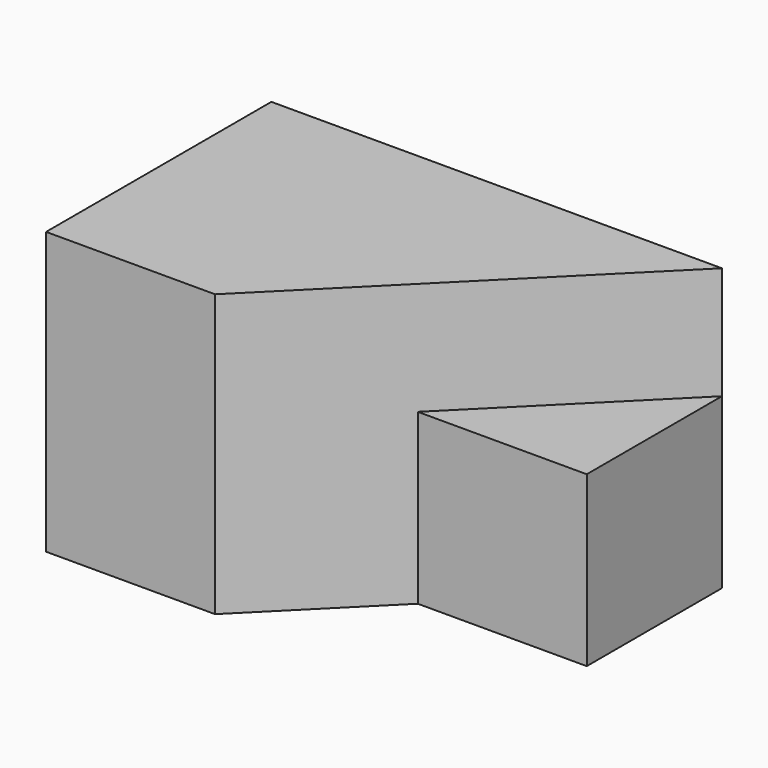
from build123d import *

# Parameters (mm, degrees)
F0_W     = 50.8
F0_H     = 31.75
F1_DEPTH = 31.75
F3_DEPTH = 31.75
F5_DEPTH = 19.05


with BuildPart() as f1:
    # F0 (on Front) → F1 (new body)
    with BuildSketch(Plane.XZ):
        with Locations((-25.4, 15.875)):
            Rectangle(F0_W, F0_H)
    extrude(amount=F1_DEPTH)

    # F2 (on face) → F3 (cut)
    with BuildSketch(Plane(origin=(0, 0, 0), x_dir=(1, 0, 0), z_dir=(0, 0, -1))):
        Polygon((0, 31.75), (-31.75, 31.75), (0, 0), align=None)
    extrude(amount=-F3_DEPTH, mode=Mode.SUBTRACT)

    # F4 (on face) → F5 (join)
    with BuildSketch(Plane(origin=(0, 0, 0), x_dir=(1, 0, 0), z_dir=(0, 0, -1))):
        Polygon((-19.05, 19.05), (0, 0), (0, 19.05), align=None)
    extrude(amount=-F5_DEPTH)


solid = f1.part
